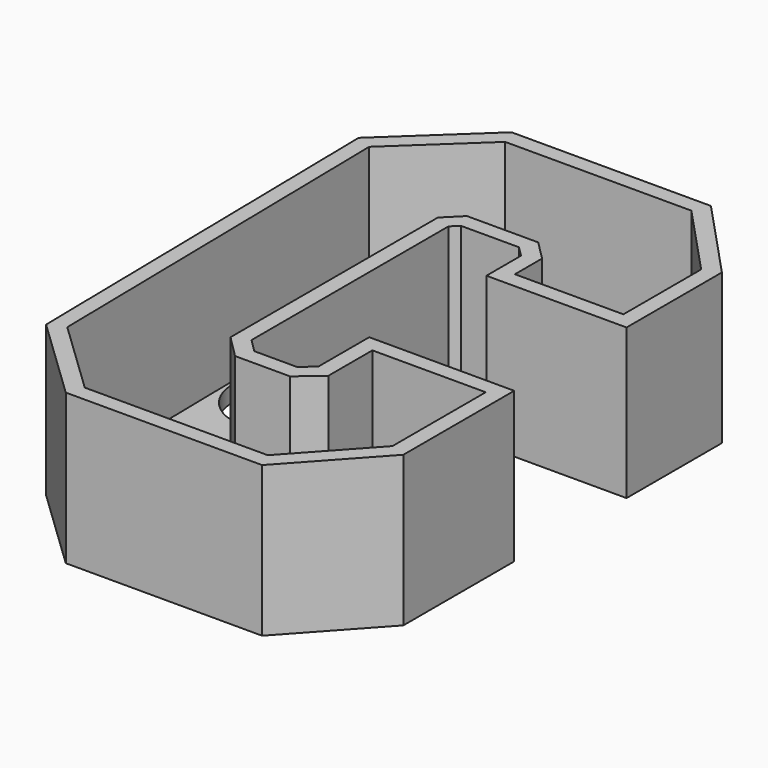
from build123d import *

# Parameters (mm, degrees)
F1_DEPTH = 17
F2_T     = 2
F3_R     = 6.5480863362
F3_R_2   = 6.2456314412
F3_R_3   = 6.7864098422
F4_DEPTH = 30


with BuildPart() as f1:
    # F0 (on Top) → F1 (new body)
    with BuildSketch(Plane.XY):
        Polygon((-23.5533174127, 36.1492224038), (-33.3842672408, 26.9327051938), (-32.5650200248, -21.8124184757), (-23.1436938047, -30.8241229504), (0, -30.8241229504), (8.397269994, -21.6076094657), (8.397269994, -6.8611833267), (-5.9395320714, -6.8611833267), (-5.9395320714, -13.824773021), (-8.8068926707, -16.2825100124), (-15.7704818994, -16.2825100124), (-18.6378415674, -13.4151503444), (-18.6378415674, 19.3546824157), (-16.5897272527, 21.4027967304), (-7.5780232437, 21.4027967304), (-5.1202862523, 18.9450588077), (-5.1202862523, 14.6440193057), (8.6020808667, 14.6440193057), (8.6020808667, 26.9327051938), (0, 36.1492224038), align=None)
    extrude(amount=F1_DEPTH)

    # F2
    f2_openings = [f1.faces().sort_by_distance(p)[0] for p in [
        (-27.928164, 30.964293, 17),
    ]]
    offset(amount=F2_T, openings=f2_openings, kind=Kind.INTERSECTION)

    # F3 (on face) → F4 (cut)
    with BuildSketch(Plane(origin=(0, 0, -2), x_dir=(1, 0, 0), z_dir=(0, 0, -1))):
        with Locations((-3.3998074941, -27.5282841176)):
            Circle(F3_R)
        with Locations((-26.31444484, -4.339881707)):
            Circle(F3_R_2)
        with Locations((-3.4494721331, 22.0593828708)):
            Circle(F3_R_3)
    extrude(amount=-F4_DEPTH, mode=Mode.SUBTRACT)


solid = f1.part
